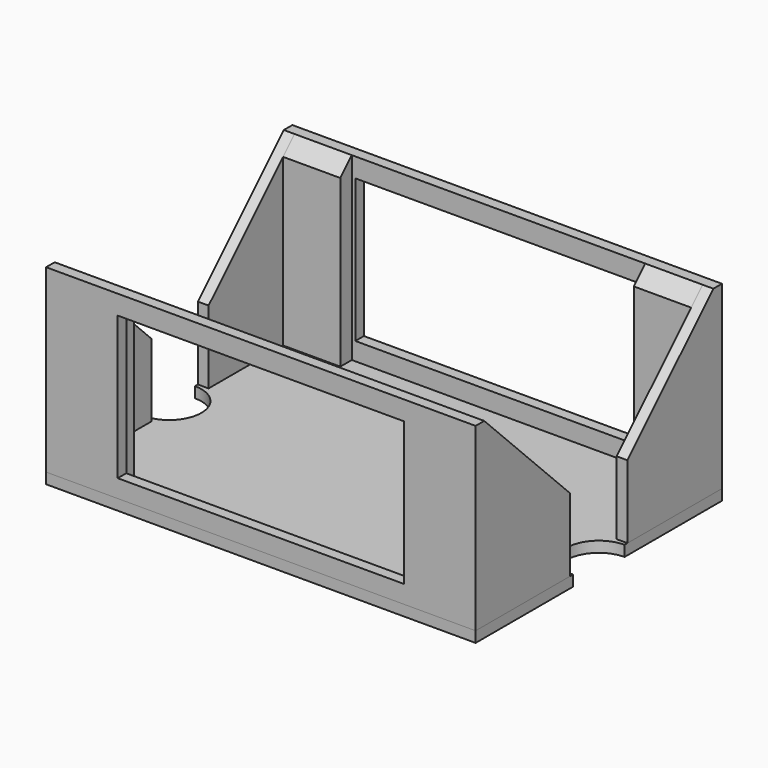
from build123d import *

# Parameters (mm, degrees)
F0_W      = 40
F0_H      = 20
F1_DEPTH  = 1.5
F3_DEPTH  = 1.5
F5_DEPTH  = 1.5
F8_DEPTH  = 8
F10_DEPTH = 8
F13_DEPTH = 1.5


with BuildPart() as f1:
    # F0 (on Front) → F1 (new body)
    with BuildSketch(Plane.XZ):
        Polygon((-30, 0), (-25, 0), (-2.5, 0), (2.5, 0), (25, 0), (30, 0), (30, 15.191743), (30, 25.191743), (28.243897, 25.191743), (-28.487795, 25.191743), (-30, 25.191743), (-30, 15.191743), align=None)
        with Locations((0, 12.5)):
            Rectangle(F0_W, F0_H, mode=Mode.SUBTRACT)
    extrude(amount=F1_DEPTH)

    # F4 (on face) → F5 (join)
    with BuildSketch(Plane.YZ.offset(30)):
        Polygon((0, 25.191743), (0, 0), (15, 0), (15, 10.191743), align=None)
    extrude(amount=-F5_DEPTH)


with BuildPart() as f3:
    # F2 (on face) → F3 (new body)
    with BuildSketch(Plane(origin=(-30, 0, 0), x_dir=(0, -1, 0), z_dir=(-1, 0, 0))):
        Polygon((-15, 0), (0, 0), (0, 25.191743), (-15, 10.191743), align=None)
    extrude(amount=-F3_DEPTH)


with BuildPart() as f8:
    # F7 (on face) → F8 (new body)
    with BuildSketch(Plane.YZ.offset(-28.5)):
        Polygon((0, 25.191743), (0, 0), (1.999698, 0), (1.999698, 23.192045), align=None)
    extrude(amount=F8_DEPTH)


with BuildPart() as f10:
    # F9 (on face) → F10 (new body)
    with BuildSketch(Plane(origin=(28.5, 0, 0), x_dir=(0, -1, 0), z_dir=(-1, 0, 0))):
        Polygon((-2, 0), (0, 0), (0, 25.191743), (-2, 23.191743), align=None)
    extrude(amount=F10_DEPTH)


with BuildPart() as f11_1:
    # F11: instance of F1
    add(f1.part.mirror(Plane(origin=(-29.25, 20, 5.095871), x_dir=(-1, 0, 0), z_dir=(0, 1, 0))))


with BuildPart() as f11_2:
    # F11: instance of F8
    add(f8.part.mirror(Plane(origin=(-29.25, 20, 5.095871), x_dir=(-1, 0, 0), z_dir=(0, 1, 0))))


with BuildPart() as f11_3:
    # F11: instance of F3
    add(f3.part.mirror(Plane(origin=(-29.25, 20, 5.095871), x_dir=(-1, 0, 0), z_dir=(0, 1, 0))))


with BuildPart() as f11_4:
    # F11: instance of F10
    add(f10.part.mirror(Plane(origin=(-29.25, 20, 5.095871), x_dir=(-1, 0, 0), z_dir=(0, 1, 0))))


with BuildPart() as f13:
    # F12 (on face) → F13 (new body)
    with BuildSketch(Plane(origin=(0, 0, 0), x_dir=(1, 0, 0), z_dir=(0, 0, -1))):
        with BuildLine():
            Line((30, 1.5), (-30, 1.5))
            Line((-30, 1.5), (-30, -15.5))
            ThreePointArc((-30, -15.5), (-25.5, -20), (-30, -24.5))
            Line((-30, -24.5), (-30, -41.5))
            Line((-30, -41.5), (30, -41.5))
            Line((30, -41.5), (30, -24.5))
            ThreePointArc((30, -24.5), (25.5, -20), (30, -15.5))
            Line((30, -15.5), (30, 1.5))
        make_face()
    extrude(amount=F13_DEPTH)


solid = Compound([f1.part, f3.part, f8.part, f10.part, f11_1.part, f11_2.part, f11_3.part, f11_4.part, f13.part])
